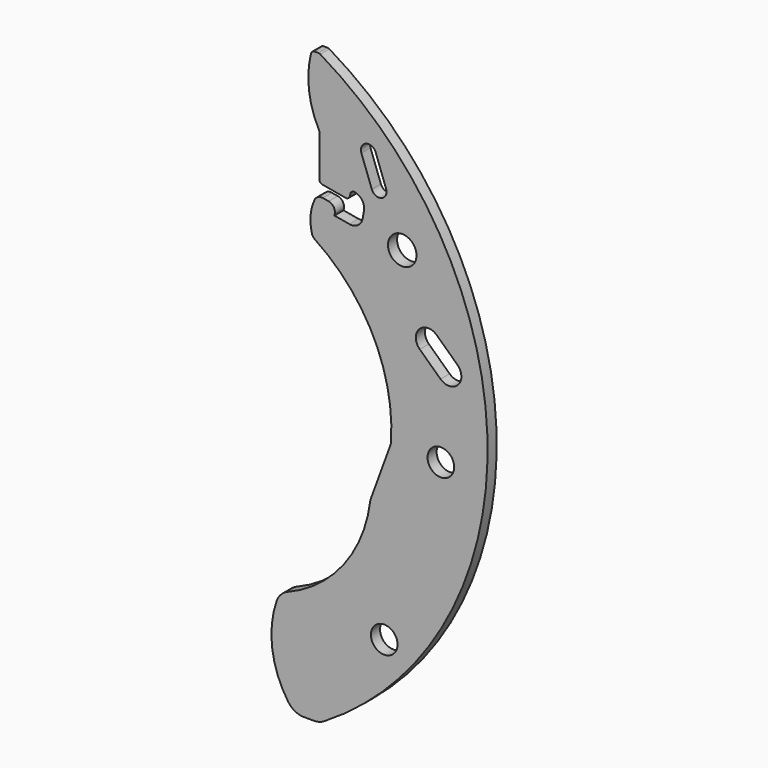
from build123d import *

# Parameters (mm, degrees)
F1_DEPTH = 3
F2_D     = 7.5
F3_D     = 7


with BuildPart() as f1:
    # F0 (on Front) → F1 (new body)
    with BuildSketch(Plane.XZ):
        with BuildLine():
            ThreePointArc((44.3705983732, -77.5), (45.7264137346, -77.3126671094), (46.9806335717, -76.7647058824))
            ThreePointArc((46.9806335717, -76.7647058824), (89.9981580742, 0.57579792), (45.9945642101, 77.3595505618))
            ThreePointArc((45.9945642101, 77.3595505618), (45.7485129667, 77.4642485576), (45.4835134967, 77.5))
            Line((45.4835134967, 77.5), (44.5262354224, 77.5))
            ThreePointArc((44.5262354224, 77.5), (43.9102444687, 77.2877532259), (43.5557377006, 76.74111029))
            ThreePointArc((43.5557377006, 76.74111029), (43.0257432914, 68.0363839372), (45.6411198435, 59.7169512378))
            ThreePointArc((45.6411198435, 59.7169512378), (45.7279786025, 59.4899612828), (45.7575130443, 59.2487215672))
            Line((45.7575130443, 59.2487215672), (45.7575130443, 48.3390996312))
            ThreePointArc((45.7575130443, 48.3390996312), (45.9914686012, 47.6963120215), (46.5838648666, 47.3542918782))
            Line((46.5838648666, 47.3542918782), (52.6511673154, 46.2844627563))
            ThreePointArc((52.6511673154, 46.2844627563), (53.3983919294, 46.4501184651), (53.8096232461, 47.0956223317))
            Line((53.8096232461, 47.0956223317), (53.8964473349, 47.5880262082))
            ThreePointArc((53.8964473349, 47.5880262082), (54.3076786516, 48.2335300748), (55.0549032656, 48.3991857835))
            ThreePointArc((55.0549032656, 48.3991857835), (56.9914148655, 47.1654918335), (57.4883819916, 44.9238179915))
            Line((57.4883819916, 44.9238179915), (57.1410856363, 42.9542024855))
            ThreePointArc((57.1410856363, 42.9542024855), (55.9073916863, 41.0176908856), (53.6657178442, 40.5207237594))
            Line((53.6657178442, 40.5207237594), (49.7264868322, 41.2153164701))
            Line((49.7264868322, 41.2153164701), (49.813310921, 41.7077203466))
            ThreePointArc((49.813310921, 41.7077203466), (49.4819995036, 43.2021695746), (48.1909917703, 44.024632208))
            Line((48.1909917703, 44.024632208), (46.654928091, 44.2954816787))
            ThreePointArc((46.654928091, 44.2954816787), (45.3770547888, 44.0961843774), (44.4883207532, 43.1565932934))
            ThreePointArc((44.4883207532, 43.1565932934), (43.4498768152, 39.2184028407), (43.7884788704, 35.1597012623))
            ThreePointArc((43.7884788704, 35.1597012623), (44.0953044742, 34.5016388527), (44.6168439919, 33.9964808404))
            ThreePointArc((44.6168439919, 33.9964808404), (60.0850196139, 16.3699097283), (64.5841686774, -6.6456963673))
            ThreePointArc((64.5841686774, -6.6456963673), (64.5645764936, -6.784174398), (64.5258561915, -6.9185647133))
            Line((64.5258561915, -6.9185647133), (59.2200951601, -21.4309391015))
            ThreePointArc((59.2200951601, -21.4309391015), (59.1869810524, -21.540630442), (59.1666321841, -21.6533897337))
            ThreePointArc((59.1666321841, -21.6533897337), (52.1569189093, -38.7718630086), (37.4004437105, -49.9264426586))
            ThreePointArc((37.4004437105, -49.9264426586), (35.6386283719, -51.1165251582), (34.530567944, -52.9310476109))
            ThreePointArc((34.530567944, -52.9310476109), (33.3782658922, -64.5025194612), (37.5854765853, -75.34346679))
            ThreePointArc((37.5854765853, -75.34346679), (39.3763002237, -76.9281674511), (41.6982246465, -77.5))
            Line((41.6982246465, -77.5), (44.3705983732, -77.5))
        make_face()
        with BuildLine():
            ThreePointArc((56.8104775969, 58.0058225518), (58.0058225518, 60.5692480801), (60.5692480801, 59.3739031251))
            Line((60.5692480801, 59.3739031251), (63.3054092267, 51.8563621588))
            ThreePointArc((63.3054092267, 51.8563621588), (62.1100642717, 49.2929366306), (59.5466387435, 50.4882815855))
            Line((59.5466387435, 50.4882815855), (56.8104775969, 58.0058225518))
        make_face(mode=Mode.SUBTRACT)
        with BuildLine():
            ThreePointArc((72.1561451286, 17.555574771), (72.0027969224, 22.1492099685), (76.5964321199, 22.3025581748))
            Line((76.5964321199, 22.3025581748), (82.0737206627, 17.1791501079))
            ThreePointArc((82.0737206627, 17.1791501079), (82.2270688689, 12.5855149104), (77.6334336714, 12.4321667042))
            Line((77.6334336714, 12.4321667042), (72.1561451286, 17.555574771))
        make_face(mode=Mode.SUBTRACT)
    extrude(amount=F1_DEPTH)

    # F2 (through all)
    with Locations(Plane(origin=(0, 0, 0), x_dir=(1, 0, 0), z_dir=(0, 1, 0))):
        with Locations((67.5499814952, -39)):
            Hole(F2_D / 2)

    # F3 (through all)
    with Locations(Plane(origin=(0, 0, 0), x_dir=(1, 0, 0), z_dir=(0, 1, 0))):
        with Locations((77.7031864512, 6.7981479343), (62.8156443358, 52.7085839943)):
            Hole(F3_D / 2)


solid = f1.part
